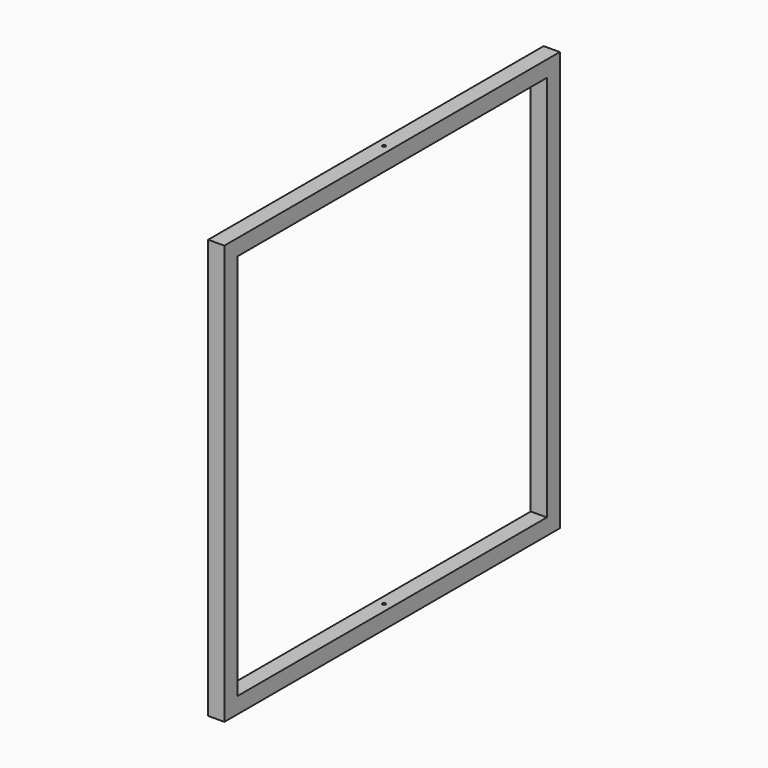
from build123d import *

# Parameters (mm, degrees)
SKETCH012_R      = 5
EXTRUDE012_DEPTH = 1500
SKETCH011_W      = 1300
SKETCH011_H      = 1300
SKETCH011_W_2    = 1200
SKETCH011_H_2    = 1200
EXTRUDE011_DEPTH = 25


with BuildPart() as extrude012:
    # Sketch012 (on Face1 of Extrude011) → Extrude012 (new body)
    with BuildSketch(Plane.XY.offset(650)):
        Circle(SKETCH012_R)
    extrude(amount=-EXTRUDE012_DEPTH)


with BuildPart() as cut006:
    # Sketch011 → Extrude011 (new body, symmetric)
    with BuildSketch(Plane.YZ):
        Rectangle(SKETCH011_W, SKETCH011_H)
        Rectangle(SKETCH011_W_2, SKETCH011_H_2, mode=Mode.SUBTRACT)
    extrude(amount=EXTRUDE011_DEPTH, both=True)

    # Cut006: cut Extrude012
    add(extrude012.part, mode=Mode.SUBTRACT)


solid = cut006.part
